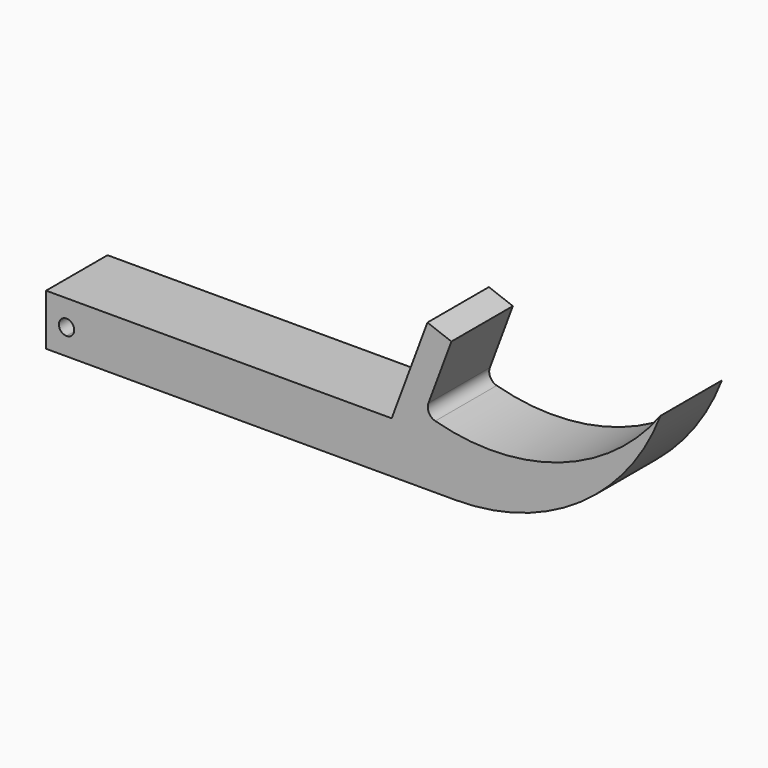
from build123d import *

# Parameters (mm, degrees)
F1_DEPTH = 38.1
F3_DEPTH = 50.8
F4_R     = 5.08


with BuildPart() as f1:
    # F0 (on Front) → F1 (new body)
    with BuildSketch(Plane.XZ):
        with BuildLine():
            Line((0, 25.4), (0, 0))
            Line((0, 0), (203.2, 0))
            ThreePointArc((203.2, 0), (264.847349, 19.147038), (304.8, 69.85))
            ThreePointArc((304.8, 69.85), (252.294174, 32.367952), (187.784361, 32.86784))
            Line((187.784361, 32.86784), (201.084143, 68.571143))
            Line((201.084143, 68.571143), (189.183042, 73.004403))
            Line((189.183042, 73.004403), (171.45, 25.4))
            Line((171.45, 25.4), (0, 25.4))
        make_face()
    extrude(amount=F1_DEPTH)

    # F2 (on face) → F3 (cut)
    with BuildSketch(Plane.XZ.offset(38.1)):
        with BuildLine():
            ThreePointArc((13.97, 12.7), (7.465923, 15.394077), (10.16, 8.89))
            ThreePointArc((10.16, 8.89), (12.854077, 10.005923), (13.97, 12.7))
        make_face()
    extrude(amount=-F3_DEPTH, mode=Mode.SUBTRACT)

    # F4
    f4_edges = [f1.edges().sort_by_distance(p)[0] for p in [
        (187.784361, -19.05, 32.86784),
    ]]
    fillet(f4_edges, radius=F4_R)


solid = f1.part
